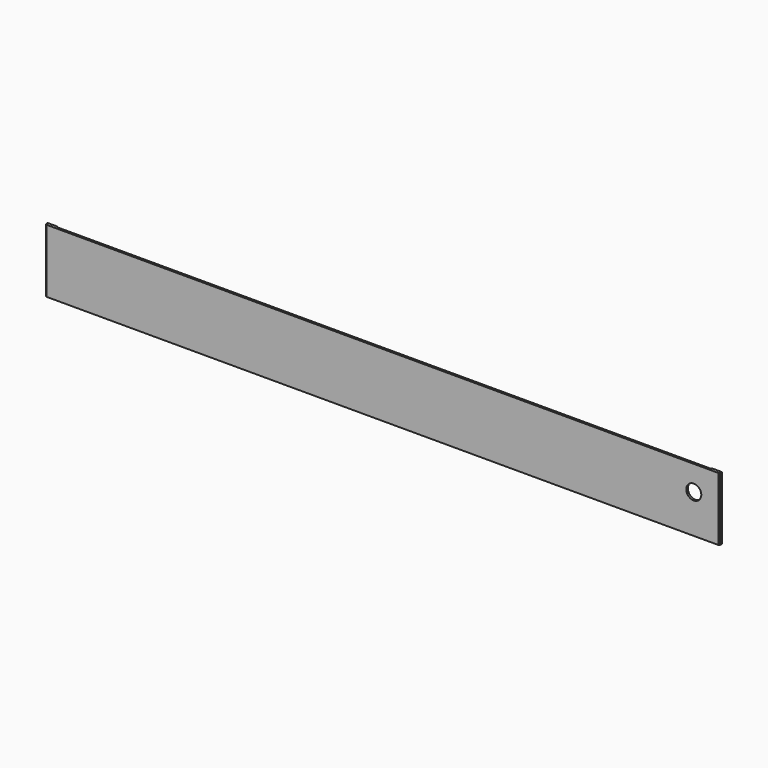
from build123d import *

# Parameters (mm, degrees)
F0_W     = 20
F0_H     = 127
F0_W_2   = 1310
F1_DEPTH = 4
F2_DEPTH = 2
F3_D     = 30
F4_SIZE  = 2


with BuildPart() as f1:
    # F0 (on Front) → F1 (new body)
    with BuildSketch(Plane.XZ):
        with Locations((-665, 0)):
            Rectangle(F0_W, F0_H)
        Rectangle(F0_W_2, F0_H)
        with Locations((665, 0)):
            Rectangle(F0_W, F0_H)
    extrude(amount=F1_DEPTH)

    # F0 (on Front) → F2 (join)
    with BuildSketch(Plane.XZ):
        with Locations((-665, 0)):
            Rectangle(F0_W, F0_H)
        with Locations((665, 0)):
            Rectangle(F0_W, F0_H)
    extrude(amount=-F2_DEPTH)

    # F3 (through all)
    with Locations(Plane(origin=(0, 0, 0), x_dir=(1, 0, 0), z_dir=(0, 1, 0))):
        with Locations((623.46, -13.81)):
            Hole(F3_D / 2)

    # F4
    f4_edges = [f1.edges().sort_by_distance(p)[0] for p in [
        (675, -4, 0),
        (-675, -4, 0),
    ]]
    chamfer(f4_edges, length=F4_SIZE)


solid = f1.part
